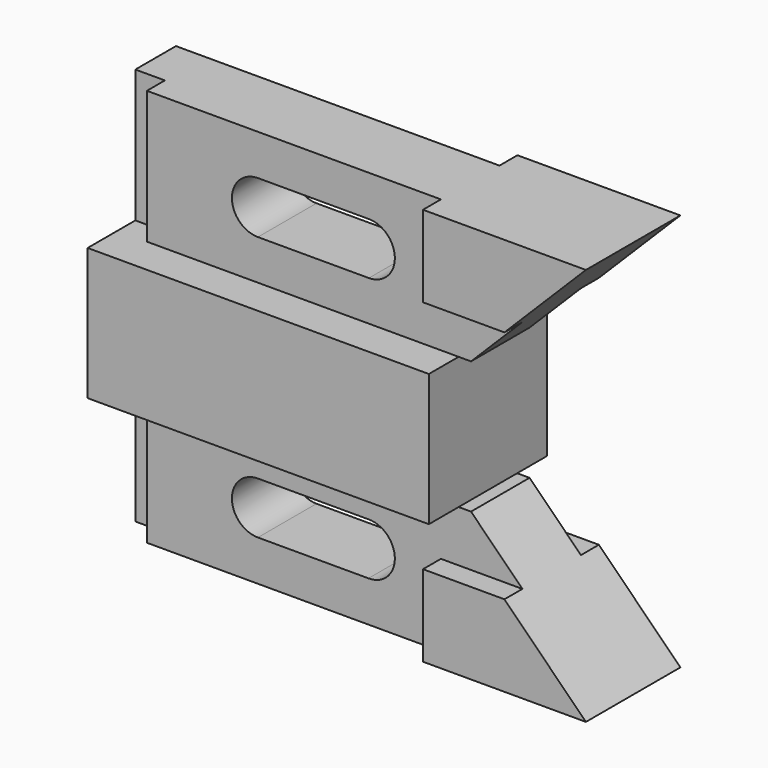
from build123d import *

# Parameters (mm, degrees)
F0_W      = 73.406
F0_H      = 31.75
F1_DEPTH  = 14.224
F2_W      = 6.35
F2_H      = 28.575
F3_DEPTH  = 7.874
F5_DEPTH  = 7.874
F6_DEPTH  = 3.048
F8_DEPTH  = 4.826
F10_DEPTH = 4.826


with BuildPart() as f1:
    # F0 (on Top) → F1 (new body)
    with BuildSketch(Plane.XY):
        Rectangle(F0_W, F0_H)
    extrude(amount=F1_DEPTH)

    # F2 (on Front) → F3 (join)
    with BuildSketch(Plane.XZ):
        Polygon((-30.353, 42.799), (-30.353, 14.224), (39.37, 14.224), (50.3207743978, 25.1747743978), (32.893, 25.1747743978), (32.893, 42.799), align=None)
        with BuildLine():
            ThreePointArc((-6.4773515256, 22.860703056), (-12.0649999994, 28.4484341748), (-6.4771862369, 34.0360000025))
            Line((-6.4771862369, 34.0360000025), (17.3101380153, 34.035296348))
            ThreePointArc((17.3101380153, 34.035296348), (17.3987768094, 34.0359967795), (17.4874155619, 34.035291104))
            ThreePointArc((17.4874155619, 34.035291104), (22.9864344307, 28.4035107074), (17.3984462114, 22.8599967844))
            Line((17.3984462114, 22.8599967844), (-6.4773515256, 22.860703056))
        make_face(mode=Mode.SUBTRACT)
        Polygon((67.945, 42.799), (32.893, 42.799), (32.893, 25.1747743978), (50.3207743978, 25.1747743978), align=None)
        with Locations((-33.528, 28.5115)):
            Rectangle(F2_W, F2_H)
    extrude(amount=-F3_DEPTH)

    # F4 (on face) → F5 (join)
    with BuildSketch(Plane.XZ):
        Polygon((67.945, 42.799), (-30.353, 42.799), (-30.353, 14.224), (36.703, 14.224), (39.37, 14.224), align=None)
        with BuildLine():
            ThreePointArc((17.3101380153, 34.035296348), (22.9864370529, 28.4921522689), (17.3984462114, 22.8599967844))
            Line((17.3984462114, 22.8599967844), (-6.4773515256, 22.860703056))
            ThreePointArc((-6.4773515256, 22.860703056), (-12.0649999994, 28.4484341748), (-6.4771862369, 34.0360000025))
            Line((-6.4771862369, 34.0360000025), (17.3101380153, 34.035296348))
        make_face(mode=Mode.SUBTRACT)
    extrude(amount=F5_DEPTH)

    # F6 (add): a face of the model
    f6_faces = [f1.faces().sort_by_distance(p)[0] for p in [
        (-33.528, 0, 28.5115),
    ]]
    extrude(f6_faces, amount=F6_DEPTH)

    # F7 (on face) → F8 (join)
    with BuildSketch(Plane.XZ.offset(7.874)):
        Polygon((50.419, 25.273), (67.945, 42.799), (32.893, 42.799), (32.893, 25.273), align=None)
    extrude(amount=F8_DEPTH)

    # F9 (on face) → F10 (join)
    with BuildSketch(Plane(origin=(0, 7.874, 0), x_dir=(-1, 0, 0), z_dir=(0, 1, 0))):
        Polygon((-32.893, 42.799), (-67.945, 42.799), (-50.419, 25.273), (-32.893, 25.273), align=None)
    extrude(amount=F10_DEPTH)

    # F11: F1 across plane


with BuildPart() as f1_1:
    add(f1.part)
    add(f1.part.mirror(Plane.XY))


solid = f1_1.part
